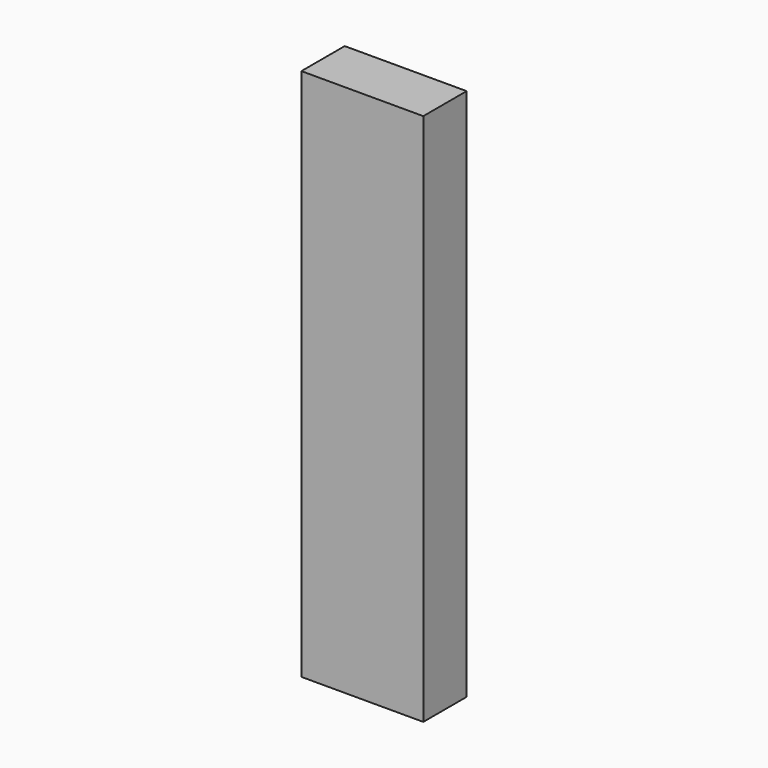
from build123d import *

# Parameters (mm, degrees)
RECTANGLE_W           = 22.86
RECTANGLE_H           = 10.16
EXTRUDE_DEPTH         = 100
CLONE_SCALE_SCALE     = 0.001
CLONE_ROLL_ANGLE      = 171.394155
CLONE_PITCH_ANGLE     = -38.256467
CLONE_PLACEMENT_ANGLE = -110.851349


with BuildPart() as extrude_body:
    # Rectangle → Extrude (new body)
    with BuildSketch(Plane(origin=(-11.43, -5.08, 0), x_dir=(1, 0, 0), z_dir=(0, 0, 1))):
        with Locations((11.43, 5.08)):
            Rectangle(RECTANGLE_W, RECTANGLE_H)
    extrude(amount=EXTRUDE_DEPTH)


with BuildPart() as extrude001:
    # Clone base: copy of Extrude body
    add(extrude_body.part)


with BuildPart() as extrude001_1:
    # Clone scale: moved
    add(extrude001.part.scale(CLONE_SCALE_SCALE))


with BuildPart() as extrude001_2:
    # Clone roll: moved
    add(extrude001_1.part.rotate(Axis((0, 0, 0), (1, 0, 0)), CLONE_ROLL_ANGLE))


with BuildPart() as extrude001_3:
    # Clone pitch: moved
    add(extrude001_2.part.rotate(Axis((0, 0, 0), (0, 1, 0)), CLONE_PITCH_ANGLE))


with BuildPart() as extrude001_4:
    # Clone placement: moved
    add(extrude001_3.part.moved(Location((-8.3e-05, -0.003101, -0.00049))).rotate(Axis((-8.3e-05, -0.003101, -0.00049), (0, 0, 1)), CLONE_PLACEMENT_ANGLE))


solid = Compound([extrude_body.part, extrude001_4.part])
